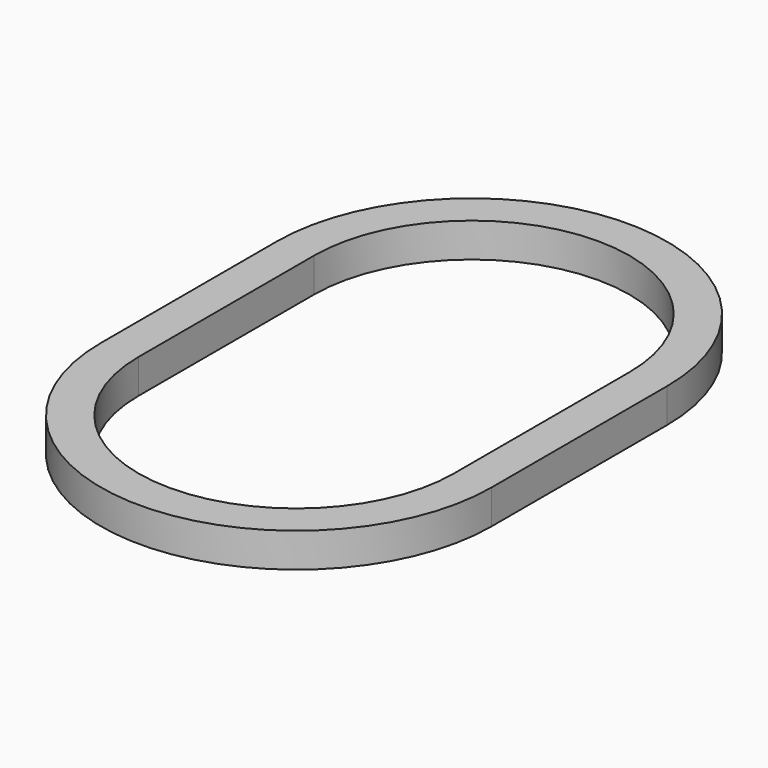
from build123d import *

# Parameters (mm, degrees)
F1_DEPTH = 10
F3_DEPTH = 2
F5_DEPTH = 1


with BuildPart() as f1:
    # F0 (on Top) → F1 (new body)
    with BuildSketch(Plane.XY):
        with BuildLine():
            ThreePointArc((57, 32), (0, 89), (-57, 32))
            Line((-57, 32), (-57, -32))
            ThreePointArc((-57, -32), (0, -89), (57, -32))
            Line((57, -32), (57, 32))
        make_face()
        with BuildLine():
            ThreePointArc((-46, 32), (0, 78), (46, 32))
            Line((46, 32), (46, -32))
            ThreePointArc((46, -32), (0, -78), (-46, -32))
            Line((-46, -32), (-46, 32))
        make_face(mode=Mode.SUBTRACT)
    extrude(amount=F1_DEPTH)

    # F2 (on face) → F3 (cut)
    with BuildSketch(Plane(origin=(0, 0, 0), x_dir=(1, 0, 0), z_dir=(0, 0, -1))):
        with BuildLine():
            ThreePointArc((55, 32), (0, 87), (-55, 32))
            Line((-55, 32), (-55, -32))
            ThreePointArc((-55, -32), (0, -87), (55, -32))
            Line((55, -32), (55, 32))
        make_face()
        with BuildLine():
            Line((-48, -32), (-48, 32))
            ThreePointArc((-48, 32), (0, 80), (48, 32))
            Line((48, 32), (48, -32))
            ThreePointArc((48, -32), (0, -80), (-48, -32))
        make_face(mode=Mode.SUBTRACT)
    extrude(amount=-F3_DEPTH, mode=Mode.SUBTRACT)

    # F4 (on face) → F5 (cut)
    with BuildSketch(Plane(origin=(0, 0, 2), x_dir=(1, 0, 0), z_dir=(0, 0, -1))):
        with BuildLine():
            Line((52.5, 10), (52.5, 32))
            ThreePointArc((52.5, 32), (0, 84.5), (-52.5, 32))
            Line((-52.5, 32), (-52.5, 10))
            Line((-52.5, 10), (-50.5, 10))
            Line((-50.5, 10), (-50.5, 32))
            ThreePointArc((-50.5, 32), (0, 82.5), (50.5, 32))
            Line((50.5, 32), (50.5, 10))
            Line((50.5, 10), (52.5, 10))
        make_face()
        with BuildLine():
            Line((-52.5, -10), (-52.5, -32))
            ThreePointArc((-52.5, -32), (0, -84.5), (52.5, -32))
            Line((52.5, -32), (52.5, -10))
            Line((52.5, -10), (50.5, -10))
            Line((50.5, -10), (50.5, -32))
            ThreePointArc((50.5, -32), (0, -82.5), (-50.5, -32))
            Line((-50.5, -32), (-50.5, -10))
            Line((-50.5, -10), (-52.5, -10))
        make_face()
    extrude(amount=-F5_DEPTH, mode=Mode.SUBTRACT)


solid = f1.part
